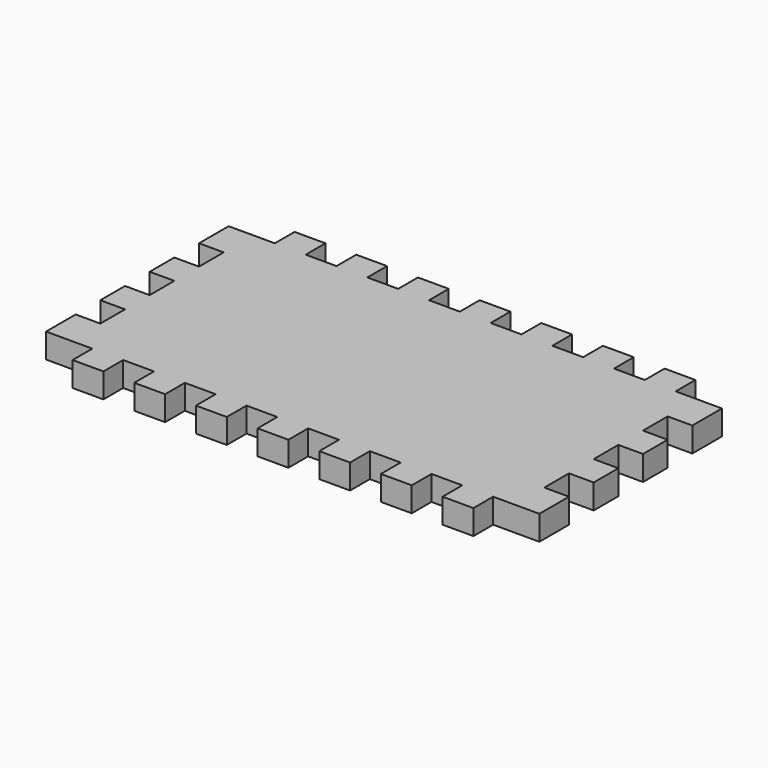
from build123d import *

# Parameters (mm, degrees)
F1_DEPTH = 10.16


with BuildPart() as f1:
    # F0 (on Top) → F1 (new body)
    with BuildSketch(Plane.XY):
        Polygon((31.75, 0), (19.05, 0), (19.05, -10.16), (0, -10.16), (0, -25.4), (10.16, -25.4), (10.16, -38.1), (0, -38.1), (0, -50.8), (10.16, -50.8), (10.16, -63.5), (0, -63.5), (0, -76.2), (10.16, -76.2), (10.16, -88.9), (0, -88.9), (0, -104.14), (19.05, -104.14), (19.05, -114.3), (31.75, -114.3), (31.75, -104.14), (44.45, -104.14), (44.45, -114.3), (57.15, -114.3), (57.15, -104.14), (69.85, -104.14), (69.85, -114.3), (82.55, -114.3), (82.55, -104.14), (95.25, -104.14), (95.25, -114.3), (107.95, -114.3), (107.95, -104.14), (120.65, -104.14), (120.65, -114.3), (133.35, -114.3), (133.35, -104.14), (146.05, -104.14), (146.05, -114.3), (158.75, -114.3), (158.75, -104.14), (171.45, -104.14), (171.45, -114.3), (184.15, -114.3), (184.15, -104.14), (203.2, -104.14), (203.2, -88.9), (193.04, -88.9), (193.04, -76.2), (203.2, -76.2), (203.2, -63.5), (193.04, -63.5), (193.04, -50.8), (203.2, -50.8), (203.2, -38.1), (193.04, -38.1), (193.04, -25.4), (203.2, -25.4), (203.2, -10.16), (184.15, -10.16), (184.15, 0), (171.45, 0), (171.45, -10.16), (158.75, -10.16), (158.75, 0), (146.05, 0), (146.05, -10.16), (133.35, -10.16), (133.35, 0), (120.65, 0), (120.65, -10.16), (107.95, -10.16), (107.95, 0), (95.25, 0), (95.25, -10.16), (82.55, -10.16), (82.55, 0), (69.85, 0), (69.85, -10.16), (57.15, -10.16), (57.15, 0), (44.45, 0), (44.45, -10.16), (31.75, -10.16), align=None)
    extrude(amount=F1_DEPTH)


solid = f1.part
